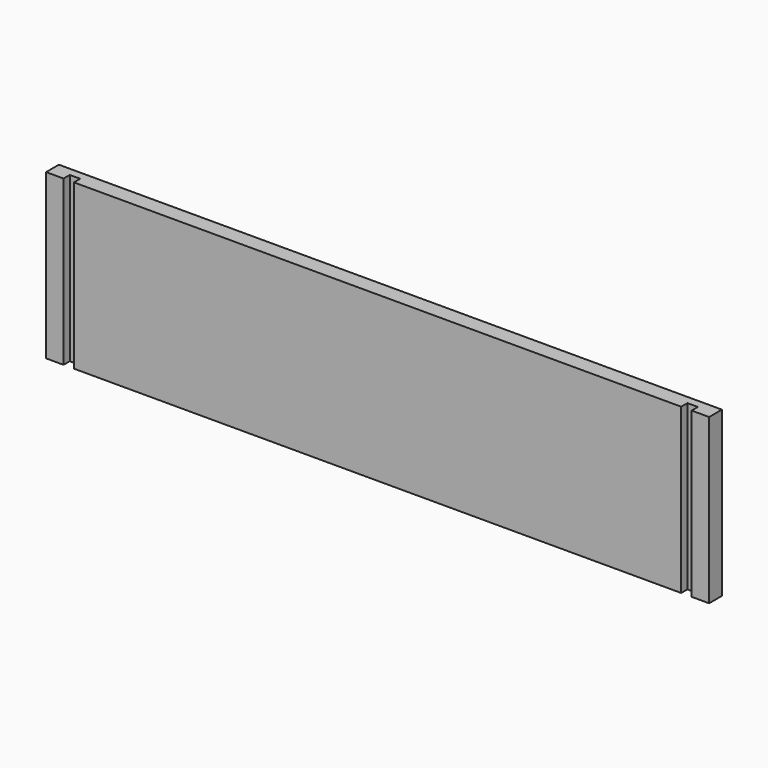
from build123d import *

# Parameters (mm, degrees)
F1_DEPTH = 47
F2_SIZE  = 1


with BuildPart() as f1:
    # F0 (on Top) → F1 (new body)
    with BuildSketch(Plane.XY):
        Polygon((0, -5.588235), (0, 0), (-95, 0), (-95, -5.588235), (-8, -5.588235), (-8, -3.352941), (-5, -3.352941), (-5, -5.588235), align=None)
        Polygon((-95, -5.588235), (-95, 0), (-190, 0), (-190, -5.588235), (-185, -5.588235), (-185, -3.352941), (-182, -3.352941), (-182, -5.588235), align=None)
    extrude(amount=F1_DEPTH)

    # F2
    f2_edges = [f1.edges().sort_by_distance(p)[0] for p in [
        (0, 0, 23.5),
        (-95, 0, 47),
        (-190, 0, 23.5),
        (-95, 0, 0),
    ]]
    chamfer(f2_edges, length=F2_SIZE)


solid = f1.part
